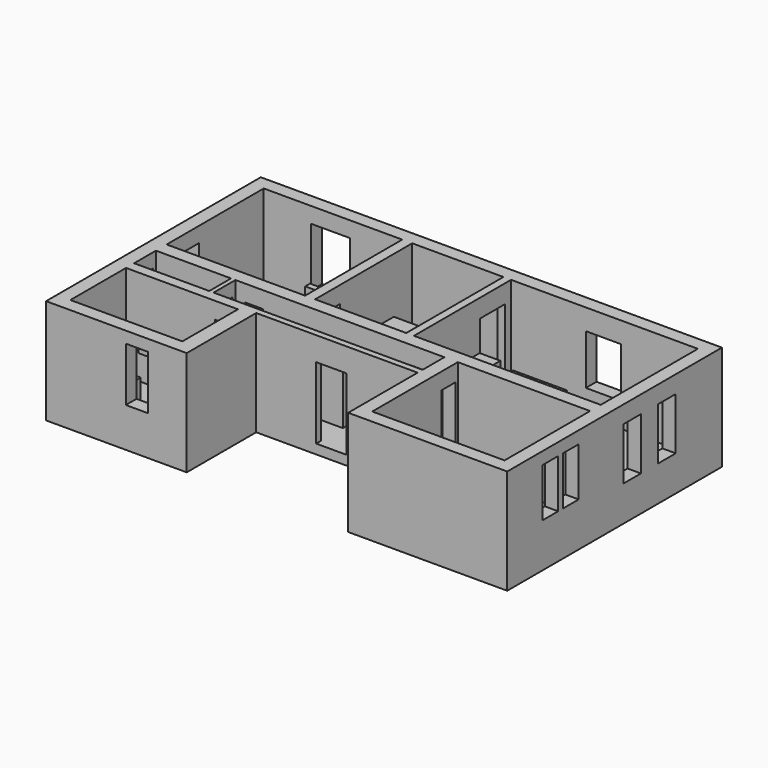
from build123d import *

# Parameters (mm, degrees)
F0_W      = 7.4472315609
F0_H      = 3.556
F0_W_2    = 2.6541557163
F0_H_2    = 4.3827672489
F0_H_3    = 2.6971623302
F0_W_3    = 6.2293633131
F0_W_4    = 2.0334683359
F0_H_4    = 4.201002419
F0_W_5    = 2.0951088518
F0_H_5    = 7.2562769055
F1_DEPTH  = 25.4
F2_W      = 122.7116975245
F2_H      = 71.4170392603
F3_DEPTH  = 2.54
F10_W     = 42.964797467
F10_H     = 23.1055133045
F11_DEPTH = 25.4
F12_W     = 52.7034848928
F12_H     = 7.2562769055
F13_DEPTH = 25.4
F14_W     = 3.8137007505
F14_H     = 7.2562769055
F15_DEPTH = 25.4
F16_W     = 1.1556781828
F16_H     = 7.2562769055
F17_DEPTH = 25.4
F18_W     = 4.8191272654
F18_H     = 21.7505805194
F19_DEPTH = 6.35
F8_W      = 8.3097685128
F8_H      = 20.5172710121
F20_DEPTH = 6.35
F4_W      = 8.1070286687
F4_H      = 19.0826784819
F21_DEPTH = 25.4
F9_W      = 7.022886537
F9_H      = 20.6034686416
F22_DEPTH = 6.35
F5_W      = 4.7015404562
F5_H      = 21.001059562
F23_DEPTH = 25.4
F6_W      = 4.8312284052
F6_H      = 20.985044539
F24_DEPTH = 25.4
F7_W      = 6.7103616893
F7_H      = 20.9590904415
F25_DEPTH = 25.4
F26_W     = 5.8523267508
F26_H     = 13.8950105757
F27_DEPTH = 25.4
F28_W     = 5.1588411443
F28_H     = 12.9397027194
F29_DEPTH = 25.4
F30_W     = 9.3571692705
F30_H     = 13.2997320034
F31_DEPTH = 25.4
F32_W     = 5.893914029
F32_H     = 14.3777541816
F33_DEPTH = 25.4
F34_W     = 8.0325882882
F34_H     = 15.0694889016
F35_DEPTH = 25.4
F36_W     = 10.2800261229
F36_H     = 15.548416879
F37_DEPTH = 25.4
F38_W     = 5.5209870916
F38_H     = 10.8871534467
F39_DEPTH = 25.4
F40_W     = 14.321602881
F40_H     = 6.1105508357
F40_W_2   = 14.3215991557
F40_H_2   = 5.7286396623
F41_DEPTH = 6.35
F42_W     = 1.9706282765
F42_H     = 2.7450472116
F42_W_2   = 2.3765675724
F42_H_2   = 3.0201291665
F43_DEPTH = 0.254
F44_W     = 5.5102305487
F44_H     = 7.5104851276
F44_W_2   = 7.502336055
F44_H_2   = 4.8548011109
F45_DEPTH = 13.97
F46_W     = 11.075373739
F46_H     = 14.1306445003
F47_DEPTH = 7.112
F48_W     = 3.4371875226
F48_H     = 2.1959785372
F48_W_2   = 3.7148986012
F48_H_2   = 2.2024509963
F49_DEPTH = 0.6604
F50_W     = 2.666413784
F50_H     = 12.0682506822
F51_DEPTH = 11.2014
F52_W     = 8.0667622387
F52_H     = 11.9860693812
F53_DEPTH = 6.858
F54_W     = 4.823461175
F54_H     = 10.3989075869
F55_DEPTH = 2.7178
F56_W     = 1.8811058253
F56_H     = 5.2443835884
F57_DEPTH = 3.3782
F58_W     = 0.9360611439
F58_H     = 3.8778744638
F59_DEPTH = 3.81
F60_W     = 2.9547251761
F60_H     = 3.1883649062
F61_DEPTH = 7.7216
F62_W     = 2.9547251761
F62_H     = 1.5941824531
F63_DEPTH = 3.1496
F64_R     = 0.6042852843
F65_DEPTH = 2.6924
F66_W     = 13.0359493196
F66_H     = 5.9010127072
F67_DEPTH = 7.112
F68_W     = 13.0359493196
F68_H     = 4.3066889048
F69_DEPTH = 3.5052
F70_W     = 15.8127360046
F70_H     = 1.3318341225
F71_DEPTH = 3.556
F72_W     = 11.1862756312
F72_H     = 3.5932138562
F73_DEPTH = 10.922
F74_W     = 2.2614542395
F74_H     = 6.7048640922
F75_DEPTH = 16.256
F76_W     = 6.558789406
F76_H     = 13.4132672101
F76_W_2   = 4.7259349376
F76_H_2   = 11.0709369183
F77_DEPTH = 10.668


with BuildPart() as f1:
    # F0 (on Top) → F1 (new body)
    with BuildSketch(Plane.XY):
        Polygon((66.2845987139, 43.3233660402), (-56.4270988107, 43.3233660402), (-56.4270988107, -28.09367322), (-18.9999882132, -28.09367322), (-18.9999882132, -4.9881599156), (23.9648092538, -4.9881599156), (23.9648092538, -28.09367322), (66.2845987139, -28.09367322), align=None)
        Polygon((-32.5523763895, 3.9145704359), (-30.4572675377, 3.9145704359), (-30.4572675377, 7.4705704359), (-52.7989640832, 7.4705704359), (-52.7989640832, 39.7673660402), (-15.9447137266, 39.7673660402), (-15.9447137266, 11.8533376848), (-13.2905580103, 11.8533376848), (-13.2905580103, 39.7673660402), (10.979892686, 39.7673660402), (10.979892686, 34.9935015177), (13.0133610219, 34.9935015177), (13.0133610219, 39.7673660402), (62.7285987139, 39.7673660402), (62.7285987139, 7.4705704359), (27.5208092538, 7.4705704359), (27.5208092538, 3.9145704359), (27.9524810612, 3.9145704359), (62.7285987139, 3.9145704359), (62.7285987139, -24.53767322), (27.5208092538, -24.53767322), (27.5208092538, -3.3417064697), (-23.0100359768, -3.3417064697), (-23.0100359768, -6.0388687998), (-23.0100359768, -24.53767322), (-52.7989640832, -24.53767322), (-52.7989640832, -6.0388687998), (-30.4572675377, -6.0388687998), (-30.4572675377, -3.3417064697), (-32.5523763895, -3.3417064697), (-52.7989640832, -3.3417064697), (-52.7989640832, 3.9145704359), align=None, mode=Mode.SUBTRACT)
        with Locations((-26.7336517572, 5.6925704359)):
            Rectangle(F0_W, F0_H)
        with Locations((-14.6176358685, 9.6619540603)):
            Rectangle(F0_W_2, F0_H_2)
        Polygon((-23.0100359768, 7.4705704359), (-23.0100359768, 3.9145704359), (21.2914459407, 3.9145704359), (21.2914459407, 7.4705704359), (13.0133610219, 7.4705704359), (13.0133610219, 30.7924990987), (10.979892686, 30.7924990987), (10.979892686, 7.4705704359), (-13.2905580103, 7.4705704359), (-15.9447137266, 7.4705704359), align=None)
        with Locations((-26.7336517572, -4.6902876347)):
            Rectangle(F0_W, F0_H_3)
        with Locations((24.4061275973, 5.6925704359)):
            Rectangle(F0_W_3, F0_H)
        with Locations((11.9966268539, 32.8930003082)):
            Rectangle(F0_W_4, F0_H_4)
        Polygon((21.2914459407, 3.9145704359), (-23.0100359768, 3.9145704359), (-30.4572675377, 3.9145704359), (-30.4572675377, -3.3417064697), (-23.0100359768, -3.3417064697), (27.5208092538, -3.3417064697), (27.5208092538, 3.9145704359), align=None)
        with Locations((-31.5048219636, 0.2864319831)):
            Rectangle(F0_W_5, F0_H_5)
    extrude(amount=F1_DEPTH)

    # F2 (on face) → F3 (join)
    with BuildSketch(Plane(origin=(0, 0, 0), x_dir=(1, 0, 0), z_dir=(0, 0, -1))):
        with Locations((4.9287499516, -7.6148464101)):
            Rectangle(F2_W, F2_H)
    extrude(amount=F3_DEPTH)

    # F10 (on face) → F11 (cut)
    with BuildSketch(Plane.XY):
        with Locations((2.4824105203, -16.5409165678)):
            Rectangle(F10_W, F10_H)
    extrude(amount=-F11_DEPTH, mode=Mode.SUBTRACT)

    # F12 (on face) → F13 (cut)
    with BuildSketch(Plane.XY.offset(25.4)):
        with Locations((-2.3869331926, 0.2864319831)):
            Rectangle(F12_W, F12_H)
    extrude(amount=-F13_DEPTH, mode=Mode.SUBTRACT)

    # F14 (on face) → F15 (cut)
    with BuildSketch(Plane.XY.offset(25.4)):
        with Locations((-30.6455260143, 0.2864319831)):
            Rectangle(F14_W, F14_H)
    extrude(amount=-F15_DEPTH, mode=Mode.SUBTRACT)

    # F16 (on face) → F17 (join)
    with BuildSketch(Plane.XY):
        with Locations((-32.2276409715, 0.2864319831)):
            Rectangle(F16_W, F16_H)
    extrude(amount=F17_DEPTH)

    # F18 (on face) → F19 (cut)
    with BuildSketch(Plane.YZ.offset(-31.6498018801)):
        with Locations((0.5186933558, 10.8752902597)):
            Rectangle(F18_W, F18_H)
    extrude(amount=-F19_DEPTH, mode=Mode.SUBTRACT)

    # F8 (on face) → F20 (cut)
    with BuildSketch(Plane.YZ.offset(13.0133610219)):
        with Locations((33.6760422215, 10.258635506)):
            Rectangle(F8_W, F8_H)
    extrude(amount=-F20_DEPTH, mode=Mode.SUBTRACT)

    # F4 (on face) → F21 (cut)
    with BuildSketch(Plane.XZ.offset(4.9881599156)):
        with Locations((0.9961604374, 9.541339241)):
            Rectangle(F4_W, F4_H)
    extrude(amount=-F21_DEPTH, mode=Mode.SUBTRACT)

    # F9 (on face) → F22 (cut)
    with BuildSketch(Plane(origin=(0, 7.4705704359, 0), x_dir=(-1, 0, 0), z_dir=(0, 1, 0))):
        with Locations((-18.423395697, 10.3017343208)):
            Rectangle(F9_W, F9_H)
    extrude(amount=-F22_DEPTH, mode=Mode.SUBTRACT)

    # F5 (on face) → F23 (cut)
    with BuildSketch(Plane.YZ.offset(27.5208092538)):
        with Locations((0.8458792581, 10.500529781)):
            Rectangle(F5_W, F5_H)
    extrude(amount=-F23_DEPTH, mode=Mode.SUBTRACT)

    # F6 (on face) → F24 (cut)
    with BuildSketch(Plane.XZ.offset(6.0388687998)):
        with Locations((-26.7358720303, 10.4925222695)):
            Rectangle(F6_W, F6_H)
    extrude(amount=-F24_DEPTH, mode=Mode.SUBTRACT)

    # F7 (on face) → F25 (cut)
    with BuildSketch(Plane.YZ.offset(-13.2905580103)):
        with Locations((12.4771408737, 10.4795452207)):
            Rectangle(F7_W, F7_H)
    extrude(amount=-F25_DEPTH, mode=Mode.SUBTRACT)

    # F26 (on face) → F27 (cut)
    with BuildSketch(Plane(origin=(62.7285987139, 0, 0), x_dir=(0, -1, 0), z_dir=(-1, 0, 0))):
        with Locations((-25.0385161489, 13.8185108081)):
            Rectangle(F26_W, F26_H)
        with Locations((-13.444589451, 13.8185108081)):
            Rectangle(F26_W, F26_H)
    extrude(amount=-F27_DEPTH, mode=Mode.SUBTRACT)

    # F28 (on face) → F29 (cut)
    with BuildSketch(Plane(origin=(62.7285987139, 0, 0), x_dir=(0, -1, 0), z_dir=(-1, 0, 0))):
        with Locations((6.9007978309, 15.6645104289)):
            Rectangle(F28_W, F28_H)
        with Locations((13.7223049533, 15.6645104289)):
            Rectangle(F28_W, F28_H)
    extrude(amount=-F29_DEPTH, mode=Mode.SUBTRACT)

    # F30 (on face) → F31 (cut)
    with BuildSketch(Plane.XZ.offset(-39.7673660402)):
        with Locations((37.5973060727, 13.1914436352)):
            Rectangle(F30_W, F30_H)
    extrude(amount=-F31_DEPTH, mode=Mode.SUBTRACT)

    # F32 (on face) → F33 (cut)
    with BuildSketch(Plane(origin=(0, -24.53767322, 0), x_dir=(-1, 0, 0), z_dir=(0, 1, 0))):
        with Locations((32.2686927393, 15.1581149548)):
            Rectangle(F32_W, F32_H)
    extrude(amount=-F33_DEPTH, mode=Mode.SUBTRACT)

    # F34 (on face) → F35 (cut)
    with BuildSketch(Plane.YZ.offset(-52.7989640832)):
        with Locations((14.2709119245, 13.8172076549)):
            Rectangle(F34_W, F34_H)
    extrude(amount=-F35_DEPTH, mode=Mode.SUBTRACT)

    # F36 (on face) → F37 (cut)
    with BuildSketch(Plane.XZ.offset(-39.7673660402)):
        with Locations((-35.0129799917, 13.450370403)):
            Rectangle(F36_W, F36_H)
    extrude(amount=-F37_DEPTH, mode=Mode.SUBTRACT)

    # F38 (on face) → F39 (cut)
    with BuildSketch(Plane.YZ.offset(-52.7989640832)):
        with Locations((0.1963482937, 16.1983240396)):
            Rectangle(F38_W, F38_H)
    extrude(amount=-F39_DEPTH, mode=Mode.SUBTRACT)

    # F40 (on face) → F41 (join)
    with BuildSketch(Plane.XY):
        with Locations((23.1055133045, 33.703497611)):
            Rectangle(F40_W, F40_H)
        with Locations((52.7034867555, 11.9346659631)):
            Rectangle(F40_W_2, F40_H_2)
    extrude(amount=F41_DEPTH)

    # F42 (on face) → F43 (join)
    with BuildSketch(Plane.XY.offset(6.35)):
        with Locations((18.4217886999, 34.0498909354)):
            Rectangle(F42_W, F42_H)
        with Locations((56.7761231214, 11.9246165268)):
            Rectangle(F42_W_2, F42_H_2)
    extrude(amount=F43_DEPTH)

    # F44 (on face) → F45 (join)
    with BuildSketch(Plane.XY):
        with Locations((17.5698450767, 23.3301660046)):
            Rectangle(F44_W, F44_H)
        with Locations((26.5151467174, 11.7228585295)):
            Rectangle(F44_W_2, F44_H_2)
    extrude(amount=F45_DEPTH)

    # F46 (on face) → F47 (join)
    with BuildSketch(Plane.XY):
        with Locations((45.7336362451, -5.4422076792)):
            Rectangle(F46_W, F46_H)
    extrude(amount=F47_DEPTH)

    # F48 (on face) → F49 (join)
    with BuildSketch(Plane.XY.offset(7.112)):
        with Locations((43.4421803802, -1.0979892686)):
            Rectangle(F48_W, F48_H)
        with Locations((47.5910855457, -1.1012254981)):
            Rectangle(F48_W_2, F48_H_2)
    extrude(amount=F49_DEPTH)

    # F50 (on face) → F51 (join)
    with BuildSketch(Plane.XY):
        with Locations((29.5773968101, -12.142584892)):
            Rectangle(F50_W, F50_H)
    extrude(amount=F51_DEPTH)

    # F52 (on face) → F53 (join)
    with BuildSketch(Plane.XY):
        with Locations((-48.7655829638, 26.1538177729)):
            Rectangle(F52_W, F52_H)
    extrude(amount=F53_DEPTH)

    # F54 (on face) → F55 (cut)
    with BuildSketch(Plane.XY.offset(6.858)):
        with Locations((-47.1439324319, 26.1332625523)):
            Rectangle(F54_W, F54_H)
    extrude(amount=-F55_DEPTH, mode=Mode.SUBTRACT)

    # F56 (on face) → F57 (join)
    with BuildSketch(Plane.XY):
        with Locations((-17.6202552393, 25.8397934958)):
            Rectangle(F56_W, F56_H)
    extrude(amount=F57_DEPTH)

    # F58 (on face) → F59 (join)
    with BuildSketch(Plane.XY.offset(3.3782)):
        with Locations((-17.587332055, 25.7746819407)):
            Rectangle(F58_W, F58_H)
    extrude(amount=F59_DEPTH)

    # F60 (on face) → F61 (join)
    with BuildSketch(Plane.XY):
        with Locations((-49.4825374335, 2.3203879828)):
            Rectangle(F60_W, F60_H)
    extrude(amount=F61_DEPTH)

    # F62 (on face) → F63 (cut)
    with BuildSketch(Plane.XY.offset(7.7216)):
        with Locations((-49.4825374335, 1.5232967562)):
            Rectangle(F62_W, F62_H)
    extrude(amount=-F63_DEPTH, mode=Mode.SUBTRACT)

    # F64 (on face) → F65 (cut)
    with BuildSketch(Plane.XY.offset(4.572)):
        with Locations((-49.6090352535, 1.6082458897)):
            Circle(F64_R)
    extrude(amount=-F65_DEPTH, mode=Mode.SUBTRACT)

    # F66 (on face) → F67 (join)
    with BuildSketch(Plane.XY):
        with Locations((-33.9801181108, 36.8168596866)):
            Rectangle(F66_W, F66_H)
    extrude(amount=F67_DEPTH)

    # F68 (on face) → F69 (cut)
    with BuildSketch(Plane.XY.offset(7.112)):
        with Locations((-33.9801181108, 36.0196977854)):
            Rectangle(F68_W, F68_H)
    extrude(amount=-F69_DEPTH, mode=Mode.SUBTRACT)

    # F70 (on face) → F71 (join)
    with BuildSketch(Plane.XZ.offset(6.0388687998)):
        with Locations((-38.7193541974, 9.5523120835)):
            Rectangle(F70_W, F70_H)
    extrude(amount=F71_DEPTH)

    # F72 (on face) → F73 (join)
    with BuildSketch(Plane.XY):
        with Locations((-42.5554979593, -22.7410662919)):
            Rectangle(F72_W, F72_H)
    extrude(amount=F73_DEPTH)

    # F74 (on face) → F75 (join)
    with BuildSketch(Plane.XY):
        with Locations((-24.1407630965, -13.4202274494)):
            Rectangle(F74_W, F74_H)
    extrude(amount=F75_DEPTH)

    # F76 (on face) → F77 (join)
    with BuildSketch(Plane.XY):
        with Locations((-10.0111633074, 26.941026561)):
            Rectangle(F76_W, F76_H)
        with Locations((8.6169252172, 18.0606096983)):
            Rectangle(F76_W_2, F76_H_2)
    extrude(amount=F77_DEPTH)


solid = f1.part
